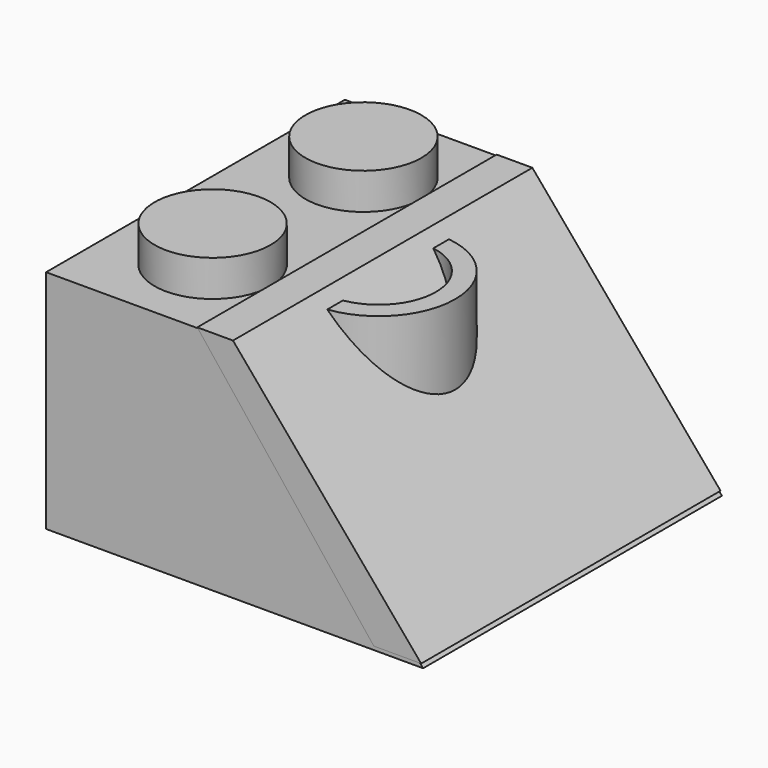
from build123d import *

# Parameters (mm, degrees)
F1_DEPTH  = 15.81
F2_R      = 2.455
F3_DEPTH  = 2
F4_W      = 6.363237
F4_H      = 12.76
F5_DEPTH  = 10
F6_W      = 8
F6_H      = 12.760826
F7_DEPTH  = 10
F9_DEPTH  = 15.84
F10_R     = 3.245
F10_R_2   = 2.425
F11_DEPTH = 9


with BuildPart() as f1:
    # F0 (on Front) → F1 (new body)
    with BuildSketch(Plane.XZ):
        Polygon((-2.968959, 0.465274), (-10.908959, 0.465274), (-10.908959, -9.104726), (5.051041, -9.104726), align=None)
    extrude(amount=F1_DEPTH)

    # F2 (on Top) → F3 (join)
    with BuildSketch(Plane.XY):
        with Locations((-6.943959, -3.975)):
            Circle(F2_R)
        with Locations((-6.943959, -11.955)):
            Circle(F2_R)
    extrude(amount=F3_DEPTH)

    # F4 (on Top) → F5 (cut)
    with BuildSketch(Plane.XY):
        with Locations((-6.197341, -7.9)):
            Rectangle(F4_W, F4_H)
    extrude(amount=-F5_DEPTH, mode=Mode.SUBTRACT)

    # F6 (on Top) → F7 (cut)
    with BuildSketch(Plane.XY):
        with Locations((-0.388959, -7.919587)):
            Rectangle(F6_W, F6_H)
    extrude(amount=-F7_DEPTH, mode=Mode.SUBTRACT)

    # F8 (on Front) → F9 (join)
    with BuildSketch(Plane.XZ):
        Polygon((4.992922, -8.935911), (-2.972763, 0.511219), (-4.48452, 0.511219), (2.988079, -8.935911), align=None)
    extrude(amount=F9_DEPTH)

    # F10 (on Top) → F11 (join)
    with BuildSketch(Plane.XY):
        with Locations((-2.943959, -8.171717)):
            Circle(F10_R)
        with Locations((-2.943959, -8.171717)):
            Circle(F10_R_2, mode=Mode.SUBTRACT)
    extrude(amount=-F11_DEPTH)


solid = f1.part
